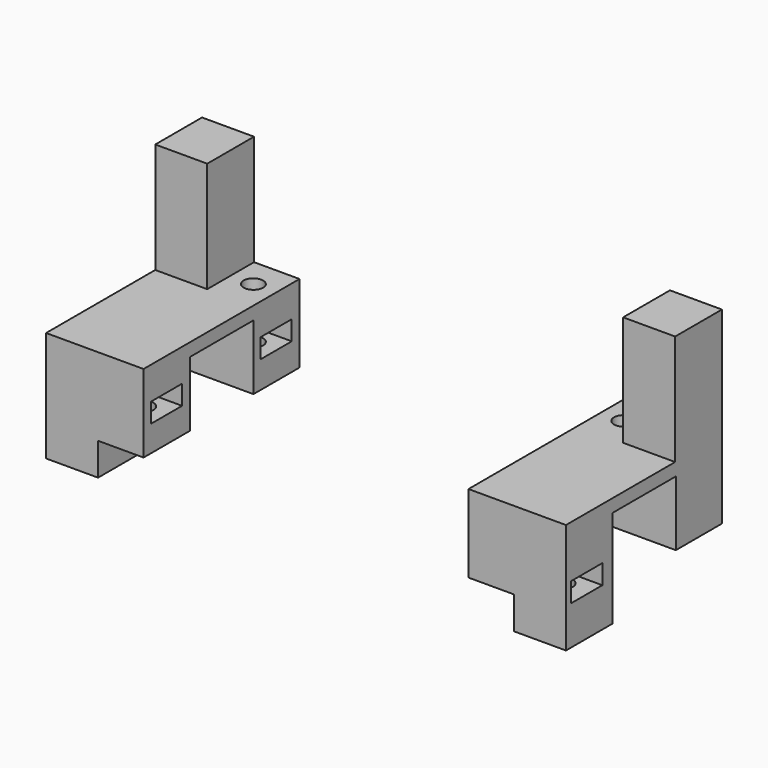
from build123d import *

# Parameters (mm, degrees)
F1_DEPTH  = 29
F0_W      = 1
F0_H      = 21
F2_DEPTH  = 29
F3_DEPTH  = 12
F4_W      = 12.2264070287
F4_H      = 10
F5_DEPTH  = 15
F6_DEPTH  = 16
F7_W      = 8
F7_H      = 8.9107662588
F8_DEPTH  = 5
F10_DEPTH = 12
F11_W     = 6
F11_H     = 3
F12_DEPTH = 7
F13_W     = 6
F13_H     = 3
F14_DEPTH = 7
F15_R     = 1.5
F16_DEPTH = 11
F17_DEPTH = 7
F18_R     = 1.5
F19_DEPTH = 11
F20_W     = 21
F20_H     = 17
F21_DEPTH = 1


with BuildPart() as f1:
    # F0 (on Top) → F1 (new body)
    with BuildSketch(Plane.XY):
        Polygon((14.8249259219, 16.8354657665), (6.8249259219, 16.8354657665), (6.8249259219, 7.8354657665), (13.8249259219, 7.8354657665), (14.8249259219, 7.8354657665), align=None)
    extrude(amount=F1_DEPTH)

    # F0 (on Top) → F2 (join)
    with BuildSketch(Plane.XY):
        with Locations((14.3249259219, -2.6645342335)):
            Rectangle(F0_W, F0_H)
    extrude(amount=F2_DEPTH)

    # F0 (on Top) → F3 (join)
    with BuildSketch(Plane.XY):
        Polygon((6.8249259219, 16.8354657665), (-0.1750740781, 16.8354657665), (-0.1750740781, -13.1645342335), (13.8249259219, -13.1645342335), (13.8249259219, 7.8354657665), (6.8249259219, 7.8354657665), align=None)
    extrude(amount=F3_DEPTH)

    # F4 (on Right) → F5 (join)
    with BuildSketch(Plane.YZ):
        with Locations((1.8594355397, 5)):
            Rectangle(F4_W, F4_H)
    extrude(amount=F5_DEPTH)

    # F6 (cut): a face of the model
    f6_faces = [f1.faces().sort_by_distance(p)[0] for p in [
        (15, 1.8594355397, 5),
    ]]
    extrude(f6_faces, amount=-F6_DEPTH, mode=Mode.SUBTRACT)

    # F7 (on face) → F8 (join)
    with BuildSketch(Plane(origin=(0, 0, 0), x_dir=(1, 0, 0), z_dir=(0, 0, -1))):
        with Locations((10.8249259219, 8.7091511041)):
            Rectangle(F7_W, F7_H)
    extrude(amount=F8_DEPTH)

    # F9 (on face) → F10 (cut)
    with BuildSketch(Plane(origin=(0, 0, -5), x_dir=(1, 0, 0), z_dir=(0, 0, -1))):
        with BuildLine():
            ThreePointArc((12.3249259219, 8.7091511041), (11.8855860936, 9.7698112759), (10.8249259219, 10.2091511041))
            Line((10.8249259219, 10.2091511041), (10.8249259219, 8.7091511041))
            Line((10.8249259219, 8.7091511041), (12.3249259219, 8.7091511041))
        make_face()
        with BuildLine():
            Line((12.3249259219, 8.7091511041), (10.8249259219, 8.7091511041))
            Line((10.8249259219, 8.7091511041), (10.8249259219, 7.2091511041))
            ThreePointArc((10.8249259219, 7.2091511041), (11.8855860936, 7.6484909323), (12.3249259219, 8.7091511041))
        make_face()
        with BuildLine():
            Line((10.8249259219, 8.7091511041), (9.3249259219, 8.7091511041))
            ThreePointArc((9.3249259219, 8.7091511041), (9.7642657501, 7.6484909323), (10.8249259219, 7.2091511041))
            Line((10.8249259219, 7.2091511041), (10.8249259219, 8.7091511041))
        make_face()
        with BuildLine():
            Line((10.8249259219, 8.7091511041), (10.8249259219, 10.2091511041))
            ThreePointArc((10.8249259219, 10.2091511041), (9.7642657501, 9.7698112759), (9.3249259219, 8.7091511041))
            Line((9.3249259219, 8.7091511041), (10.8249259219, 8.7091511041))
        make_face()
    extrude(amount=-F10_DEPTH, mode=Mode.SUBTRACT)

    # F11 (on face) → F12 (cut)
    with BuildSketch(Plane.YZ.offset(14.8249259219)):
        with Locations((-9.1645342335, 2.5)):
            Rectangle(F11_W, F11_H)
    extrude(amount=-F12_DEPTH, mode=Mode.SUBTRACT)

    # F13 (on face) → F14 (cut)
    with BuildSketch(Plane(origin=(-0.1750740781, 0, 0), x_dir=(0, -1, 0), z_dir=(-1, 0, 0))):
        with Locations((-12.3354657665, 5.663232632)):
            Rectangle(F13_W, F13_H)
    extrude(amount=-F14_DEPTH, mode=Mode.SUBTRACT)

    # F15 (on face) → F16 (cut)
    with BuildSketch(Plane.XY.offset(12)):
        with Locations((3.3249259219, 12.3354657665)):
            Circle(F15_R)
    extrude(amount=-F16_DEPTH, mode=Mode.SUBTRACT)

    # F13 (on face) → F17 (cut)
    with BuildSketch(Plane(origin=(-0.1750740781, 0, 0), x_dir=(0, -1, 0), z_dir=(-1, 0, 0))):
        with Locations((-12.3354657665, 5.663232632)):
            Rectangle(F13_W, F13_H)
        with Locations((8.7537679747, 5.5)):
            Rectangle(F13_W, F13_H)
    extrude(amount=-F17_DEPTH, mode=Mode.SUBTRACT)

    # F18 (on face) → F19 (cut)
    with BuildSketch(Plane(origin=(0, 0, 0), x_dir=(1, 0, 0), z_dir=(0, 0, -1))):
        with Locations((3.3249259219, 8.7537679747)):
            Circle(F18_R)
    extrude(amount=-F19_DEPTH, mode=Mode.SUBTRACT)

    # F20 (on face) → F21 (cut)
    with BuildSketch(Plane(origin=(13.8249259219, 0, 0), x_dir=(0, -1, 0), z_dir=(-1, 0, 0))):
        with Locations((2.6645342335, 20.5)):
            Rectangle(F20_W, F20_H)
    extrude(amount=-F21_DEPTH, mode=Mode.SUBTRACT)


with BuildPart() as f23_1:
    # F23: instance of F1
    add(f1.part.mirror(Plane(origin=(-25.1750740781, 1.8289005766, 6.6807209955), x_dir=(0, -1, 0), z_dir=(-1, 0, 0))))


solid = Compound([f1.part, f23_1.part])
